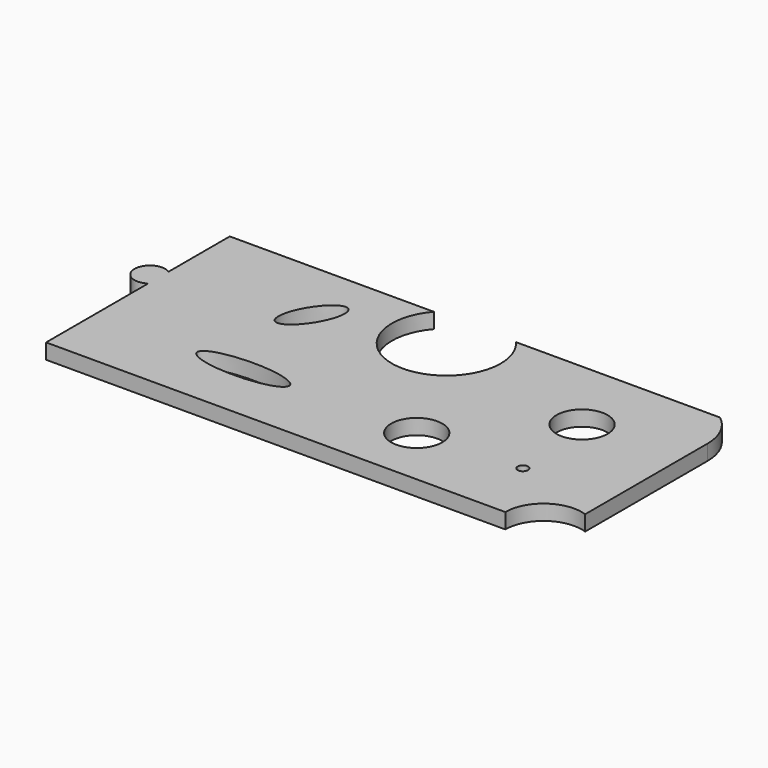
from build123d import *

# Parameters (mm, degrees)
SKETCH_R   = 5
SKETCH_R_2 = 1
PAD_DEPTH  = 3


with BuildPart() as part:
    # Sketch → Pad (new body)
    with BuildSketch(Plane.XY):
        with BuildLine():
            Line((-48.046803, -20), (41.953197, -20))
            ThreePointArc((41.953197, -20), (45.12307, -13.876276), (51.953197, -12.928932))
            Line((51.953197, -12.928932), (51.953197, 17.071068))
            ThreePointArc((51.953197, 17.071068), (50.923594, 21.490567), (48.046803, 25))
            Line((48.046803, 25), (8.046803, 25))
            ThreePointArc((8.046803, 25), (0, 7.334587), (-8.046803, 25))
            Line((-8.046803, 25), (-48.046803, 25))
            Line((-48.046803, 25), (-48.046803, 10))
            ThreePointArc((-48.046803, 10), (-52.705115, 7.5), (-48.046803, 5))
            Line((-48.046803, 5), (-48.046803, -20))
        make_face()
        with Locations((33, 10)):
            Circle(SKETCH_R, mode=Mode.SUBTRACT)
        with Locations((35, -7)):
            Circle(SKETCH_R_2, mode=Mode.SUBTRACT)
        with BuildLine():
            add(Edge.make_bspline(
                [(-10, -8), (-10, -3.669873), (-23.5, -5.834936), (-37, -8), (-23.5, -10.165064), (-10, -12.330127), (-10, -8)],
                knots=[0, 0, 0, 2.094395, 2.094395, 4.18879, 4.18879, 6.283185, 6.283185, 6.283185], degree=2, weights=[1, 0.5, 1, 0.5, 1, 0.5, 1]))
        make_face(mode=Mode.SUBTRACT)
        with BuildLine():
            add(Edge.make_bspline(
                [(-25, 7.303848), (-21.25, 5.138784), (-18.625, 14.015544), (-16, 22.892305), (-22.375, 16.180608), (-28.75, 9.468911), (-25, 7.303848)],
                knots=[0, 0, 0, 2.094395, 2.094395, 4.18879, 4.18879, 6.283185, 6.283185, 6.283185], degree=2, weights=[1, 0.5, 1, 0.5, 1, 0.5, 1]))
        make_face(mode=Mode.SUBTRACT)
        with Locations((15, -8)):
            Circle(SKETCH_R, mode=Mode.SUBTRACT)
    extrude(amount=PAD_DEPTH)


solid = part.part
